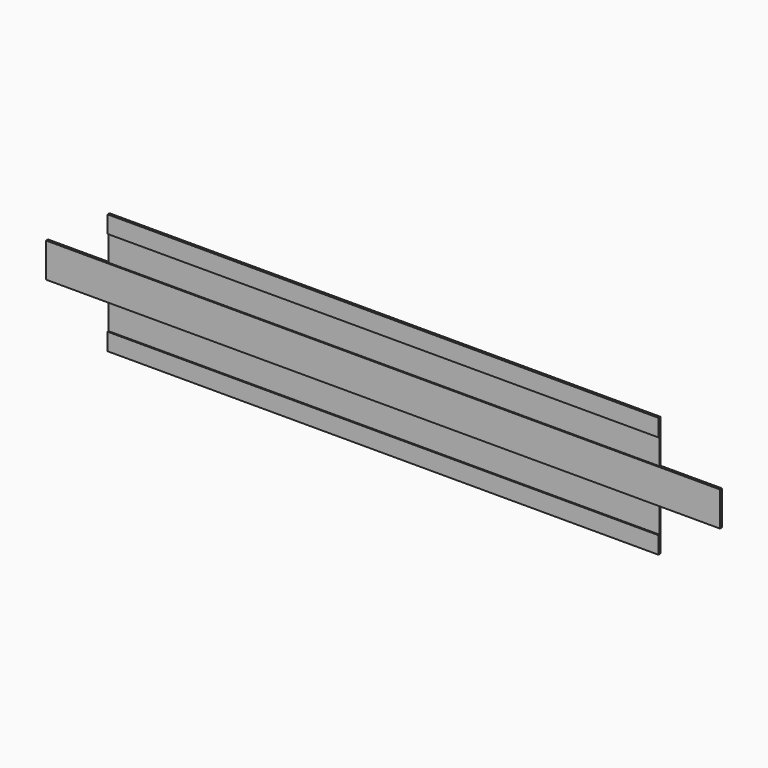
from build123d import *

# Parameters (mm, degrees)
F0_W     = 448
F0_H     = 14
F1_DEPTH = 2
F0_H_2   = 21
F2_DEPTH = 1


with BuildPart() as f1:
    # F0 (on Front) → F1 (new body)
    with BuildSketch(Plane.XZ):
        with Locations((204.685483, 91)):
            Rectangle(F0_W, F0_H)
        Polygon((-69.314517, 35), (-19.314517, 35), (428.685483, 35), (478.685483, 35), (478.685483, 63), (428.685483, 63), (-19.314517, 63), (-69.314517, 63), align=None)
        with Locations((204.685483, 7)):
            Rectangle(F0_W, F0_H)
    extrude(amount=F1_DEPTH)


with BuildPart() as f2:
    # F0 (on Front) → F2 (new body)
    with BuildSketch(Plane.XZ):
        with Locations((204.685483, 73.5)):
            Rectangle(F0_W, F0_H_2)
        with Locations((204.685483, 24.5)):
            Rectangle(F0_W, F0_H_2)
    extrude(amount=F2_DEPTH)


solid = Compound([f1.part, f2.part])
